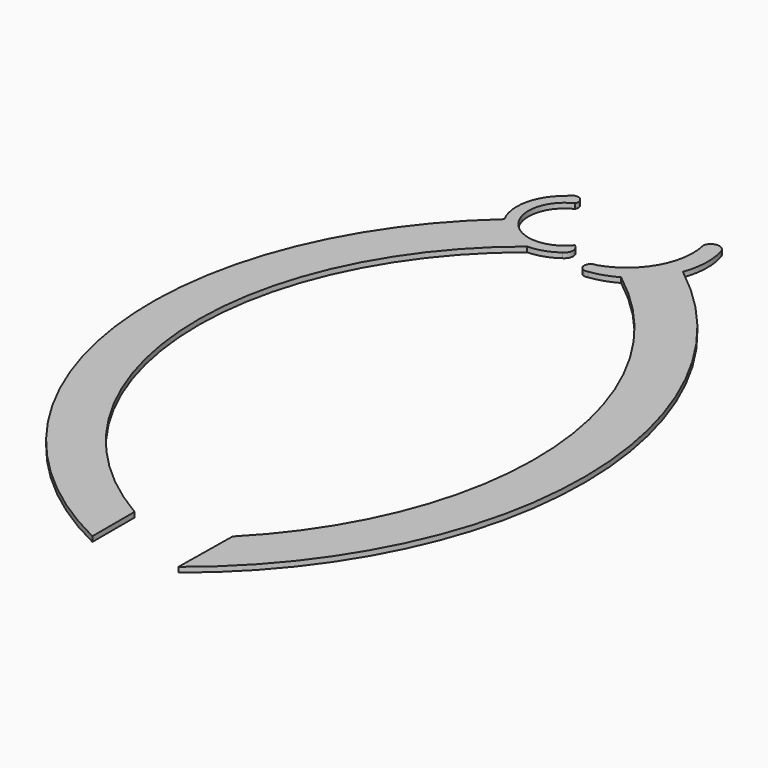
from build123d import *

# Parameters (mm, degrees)
F1_DEPTH = 2


with BuildPart() as f1:
    # F0 (on Top) → F1 (new body)
    with BuildSketch(Plane.XY):
        with BuildLine():
            ThreePointArc((-50.213337, 219.780698), (-99.219984, 88.485569), (-17.142788, -25.107548))
            Line((-17.142788, -25.107548), (-17.142788, -4.231635))
            ThreePointArc((-17.142788, -4.231635), (-81.743113, 98.552912), (-33.330921, 209.881817))
            ThreePointArc((-33.330921, 209.881817), (-43.150707, 212.480112), (-50.213337, 219.780698))
        make_face()
        with BuildLine():
            ThreePointArc((-44.86303, 244.00422), (-52.059568, 232.891108), (-50.213337, 219.780698))
            ThreePointArc((-50.213337, 219.780698), (-43.150707, 212.480112), (-33.330921, 209.881817))
            ThreePointArc((-33.330921, 209.881817), (-27.53943, 210.868787), (-22.32952, 213.583991))
            ThreePointArc((-22.32952, 213.583991), (-20.531528, 216.706947), (-22.412401, 219.780698))
            ThreePointArc((-22.412401, 219.780698), (-44.836743, 219.900784), (-39.792988, 241.750866))
            ThreePointArc((-39.792988, 241.750866), (-41.177105, 245.467076), (-44.86303, 244.00422))
        make_face()
        with BuildLine():
            Line((16.747301, 1.796898), (16.376493, -24.546769))
            ThreePointArc((16.376493, -24.546769), (76.722324, 101.495935), (14.761464, 226.752609))
            ThreePointArc((14.761464, 226.752609), (9.765137, 218.248155), (2.158004, 211.969577))
            ThreePointArc((2.158004, 211.969577), (56.987453, 110.182902), (16.747301, 1.796898))
        make_face()
        with BuildLine():
            ThreePointArc((2.158004, 211.969577), (9.765137, 218.248155), (14.761464, 226.752609))
            ThreePointArc((14.761464, 226.752609), (16.524126, 235.607464), (15.4141, 244.567558))
            ThreePointArc((15.4141, 244.567558), (12.034076, 247.375925), (8.654052, 244.567558))
            ThreePointArc((8.654052, 244.567558), (5.996451, 225.652171), (-8.809417, 213.583991))
            ThreePointArc((-8.809417, 213.583991), (-11.632369, 210.704008), (-8.246076, 208.513945))
            ThreePointArc((-8.246076, 208.513945), (-2.875451, 209.734191), (2.158004, 211.969577))
        make_face()
    extrude(amount=F1_DEPTH)


solid = f1.part
